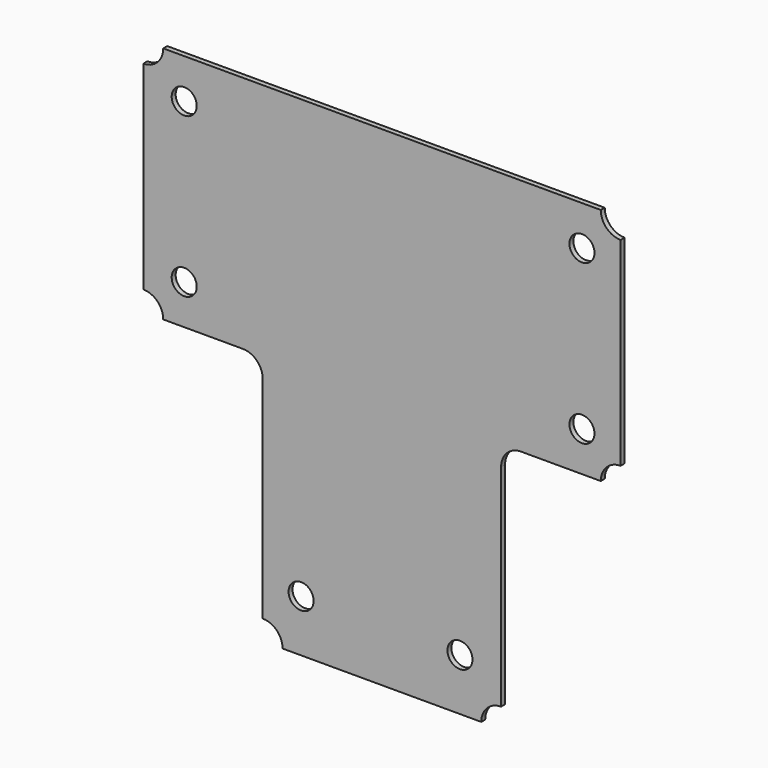
from build123d import *

# Parameters (mm, degrees)
F0_R     = 8.001
F1_DEPTH = 3.175


with BuildPart() as f1:
    # F0 (on Front) → F1 (new body)
    with BuildSketch(Plane.XZ):
        with BuildLine():
            ThreePointArc((153.411418, 63.5), (144.431162, 67.219744), (140.711418, 76.2))
            Line((140.711418, 76.2), (-138.688582, 76.2))
            ThreePointArc((-138.688582, 76.2), (-142.408326, 67.219744), (-151.388582, 63.5))
            Line((-151.388582, 63.5), (-151.388582, -63.5))
            ThreePointArc((-151.388582, -63.5), (-142.408326, -67.219744), (-138.688582, -76.2))
            Line((-138.688582, -76.2), (-87.888582, -76.2))
            ThreePointArc((-87.888582, -76.2), (-78.908326, -79.919744), (-75.188582, -88.9))
            Line((-75.188582, -88.9), (-75.188582, -223.730639))
            ThreePointArc((-75.188582, -223.730639), (-66.208326, -227.450383), (-62.488582, -236.430639))
            Line((-62.488582, -236.430639), (64.380207, -236.430639))
            ThreePointArc((64.380207, -236.430639), (68.099951, -227.450383), (77.080207, -223.730639))
            Line((77.080207, -223.730639), (77.080207, -88.9))
            ThreePointArc((77.080207, -88.9), (80.799951, -79.919744), (89.780207, -76.2))
            Line((89.780207, -76.2), (140.711418, -76.2))
            ThreePointArc((140.711418, -76.2), (144.431162, -67.219744), (153.411418, -63.5))
            Line((153.411418, -63.5), (153.411418, 63.5))
        make_face()
        with Locations((-50.668789, -203.2)):
            Circle(F0_R, mode=Mode.SUBTRACT)
        with Locations((50.8, -203.2)):
            Circle(F0_R, mode=Mode.SUBTRACT)
        with Locations((-125.302818, -50.8)):
            Circle(F0_R, mode=Mode.SUBTRACT)
        with Locations((-125.302818, 50.8)):
            Circle(F0_R, mode=Mode.SUBTRACT)
        with Locations((128.697182, -50.8)):
            Circle(F0_R, mode=Mode.SUBTRACT)
        with Locations((128.697182, 50.8)):
            Circle(F0_R, mode=Mode.SUBTRACT)
        with BuildLine():
            ThreePointArc((153.411418, 63.5), (144.431162, 67.219744), (140.711418, 76.2))
            Line((140.711418, 76.2), (-138.688582, 76.2))
            ThreePointArc((-138.688582, 76.2), (-142.408326, 67.219744), (-151.388582, 63.5))
            Line((-151.388582, 63.5), (-151.388582, -63.5))
            ThreePointArc((-151.388582, -63.5), (-142.408326, -67.219744), (-138.688582, -76.2))
            Line((-138.688582, -76.2), (-87.888582, -76.2))
            ThreePointArc((-87.888582, -76.2), (-78.908326, -79.919744), (-75.188582, -88.9))
            Line((-75.188582, -88.9), (-75.188582, -223.730639))
            ThreePointArc((-75.188582, -223.730639), (-66.208326, -227.450383), (-62.488582, -236.430639))
            Line((-62.488582, -236.430639), (64.380207, -236.430639))
            ThreePointArc((64.380207, -236.430639), (68.099951, -227.450383), (77.080207, -223.730639))
            Line((77.080207, -223.730639), (77.080207, -88.9))
            ThreePointArc((77.080207, -88.9), (80.799951, -79.919744), (89.780207, -76.2))
            Line((89.780207, -76.2), (140.711418, -76.2))
            ThreePointArc((140.711418, -76.2), (144.431162, -67.219744), (153.411418, -63.5))
            Line((153.411418, -63.5), (153.411418, 63.5))
        make_face()
        with Locations((-50.668789, -203.2)):
            Circle(F0_R, mode=Mode.SUBTRACT)
        with Locations((50.8, -203.2)):
            Circle(F0_R, mode=Mode.SUBTRACT)
        with Locations((-125.302818, -50.8)):
            Circle(F0_R, mode=Mode.SUBTRACT)
        with Locations((-125.302818, 50.8)):
            Circle(F0_R, mode=Mode.SUBTRACT)
        with Locations((128.697182, -50.8)):
            Circle(F0_R, mode=Mode.SUBTRACT)
        with Locations((128.697182, 50.8)):
            Circle(F0_R, mode=Mode.SUBTRACT)
    extrude(amount=F1_DEPTH)


solid = f1.part
